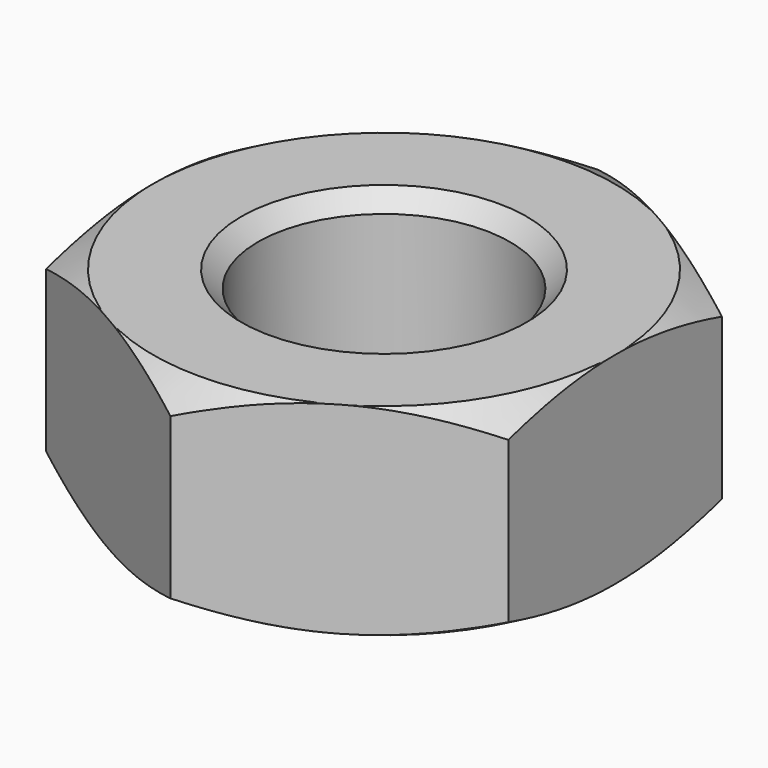
from build123d import *

# Parameters (mm, degrees)
SKETCH012_R     = 4.175426
POCKET004_DEPTH = 2.401
SKETCH011_R     = 1.5
POCKET005_DEPTH = 2.401
CHAMFER005_SIZE = 0.2


with BuildPart() as part:
    # Sketch007 → Revolution005 (revolve)
    with BuildSketch(Plane.XZ):
        Polygon((0, 2.4), (2.75, 2.4), (3.175, 2.154626), (3.175, 0.245374), (2.75, 0), (0, 0), align=None)
    revolve(axis=Axis((0, 0, 0), (0, 0, 1)))

    # Sketch012 (on Face3 of Revolution005) → Pocket004 (cut, through all)
    with BuildSketch(Plane(origin=(0, 0, 2.4), x_dir=(-1, 0, 0), z_dir=(0, 0, 1))):
        Circle(SKETCH012_R)
        Polygon((-2.75, 1.587713), (0, 3.175426), (2.75, 1.587713), (2.75, -1.587713), (0, -3.175426), (-2.75, -1.587713), align=None, mode=Mode.SUBTRACT)
    extrude(amount=-POCKET004_DEPTH, mode=Mode.SUBTRACT)

    # Sketch011 (on Face16 of Pocket004) → Pocket005 (cut, through all)
    with BuildSketch(Plane(origin=(0, 0, 2.4), x_dir=(-1, 0, 0), z_dir=(0, 0, 1))):
        Circle(SKETCH011_R)
    extrude(amount=-POCKET005_DEPTH, mode=Mode.SUBTRACT)

    # Chamfer005
    chamfer005_edges = [part.edges().sort_by_distance(p)[0] for p in [
        (1.5, 0, 2.4),
        (1.5, 0, 0),
    ]]
    chamfer(chamfer005_edges, length=CHAMFER005_SIZE)


solid = part.part
